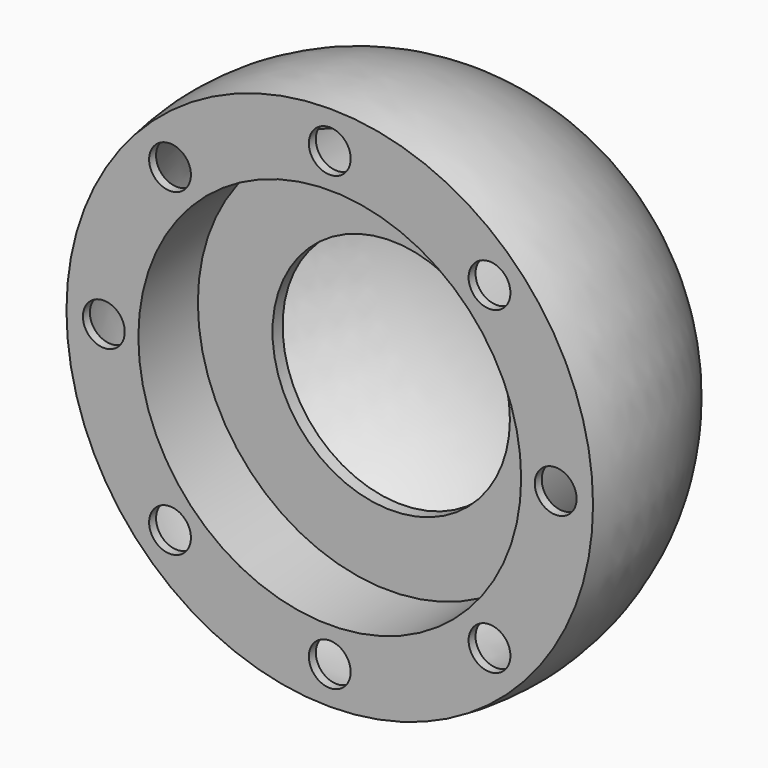
from build123d import *

# Parameters (mm, degrees)
SKETCH001_R        = 2.622639
POCKET_DEPTH       = 5
POLARPATTERN_COUNT = 8
SKETCH002_R        = 14.884411
POCKET001_DEPTH    = 5


with BuildPart() as part:
    # Sketch → Revolution (revolve)
    with BuildSketch(Plane.XY):
        with BuildLine():
            ThreePointArc((33.012922, -7.908105), (25.565533, 18.285228), (0, 27.663809))
            Line((0, 26.474948), (0, 27.663809))
            ThreePointArc((32.018239, -6.819851), (24.130045, 17.637108), (0, 26.474948))
            Line((25.149529, -6.819851), (32.018239, -6.819851))
            Line((25.149529, 2.998348), (25.149529, -6.819851))
            Line((0, 2.998348), (25.149529, 2.998348))
            Line((0, 2.998348), (0, 1.418159))
            Line((24, 1.418159), (0, 1.418159))
            Line((24, -7.908105), (24, 1.418159))
            Line((24, -7.908105), (33.012922, -7.908105))
        make_face()
    revolve(axis=Axis((0, 0, 0), (0, 1, 0)))

    # Sketch001 → Pocket (cut)
    with BuildSketch(Plane.XZ.offset(7.908105)):
        with Locations((28.32831, 0)):
            Circle(SKETCH001_R)
    pocket = extrude(amount=-POCKET_DEPTH, mode=Mode.SUBTRACT)

    # PolarPattern: Pocket ×8 about axis
    polarpattern_axis = Axis((0, -7.908105, 0), (0, -1, 0))
    for i in range(1, POLARPATTERN_COUNT):
        add(pocket.rotate(polarpattern_axis, i * 360 / POLARPATTERN_COUNT), mode=Mode.SUBTRACT)

    # Sketch002 → Pocket001 (cut)
    with BuildSketch(Plane.XZ.offset(-1.418159)):
        with Locations((0.243742, -0.164138)):
            Circle(SKETCH002_R)
    extrude(amount=-POCKET001_DEPTH, mode=Mode.SUBTRACT)


solid = part.part
